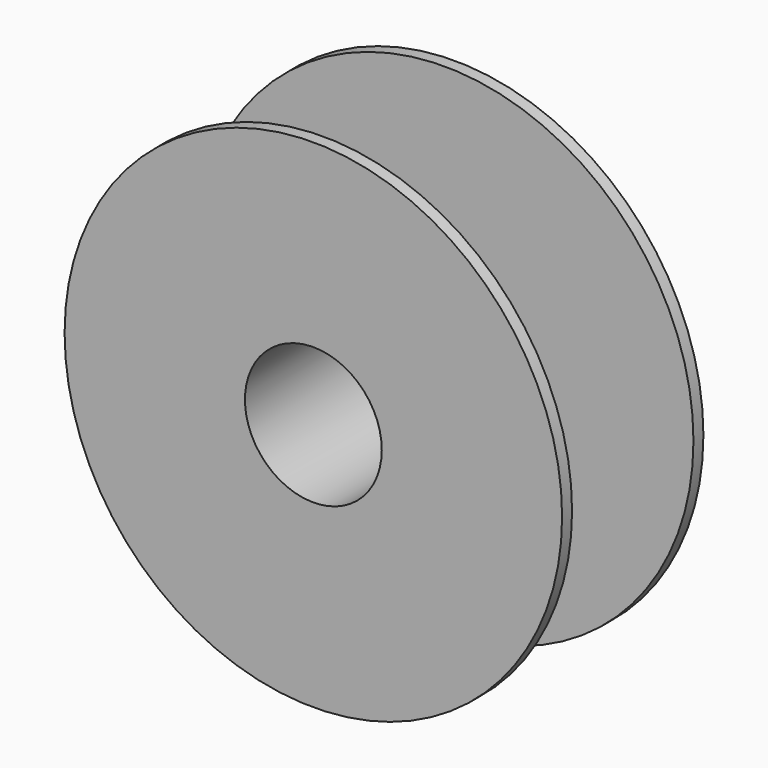
from build123d import *

# Parameters (mm, degrees)
F0_R        = 100
F0_R_2      = 30
F1_DEPTH    = 5
F2_START    = 61
F1_FACE_R   = 100
F1_FACE_R_2 = 30
F2_DEPTH    = 5
F0_R_3      = 27.5
F3_DEPTH    = 71


with BuildPart() as f1:
    # F0 (on Front) → F1 (new body)
    with BuildSketch(Plane.XZ):
        Circle(F0_R)
        Circle(F0_R_2, mode=Mode.SUBTRACT)
    extrude(amount=-F1_DEPTH)



with BuildPart() as f2:
    # F1_face (on face) → F2 (new body)
    with BuildSketch(Plane(origin=(0, 5, 0), x_dir=(1, 0, 0), z_dir=(0, 1, 0)).offset(F2_START)):
        Circle(F1_FACE_R)
        Circle(F1_FACE_R_2, mode=Mode.SUBTRACT)
    extrude(amount=F2_DEPTH)


with BuildPart() as f1_1:
    add(f1.part)

    add(f2.part)  # F3 merges F2
    # F0 (on Front) → F3 (join)
    with BuildSketch(Plane.XZ):
        Circle(F0_R_2)
        Circle(F0_R_3, mode=Mode.SUBTRACT)
    extrude(amount=-F3_DEPTH)


solid = f1_1.part
